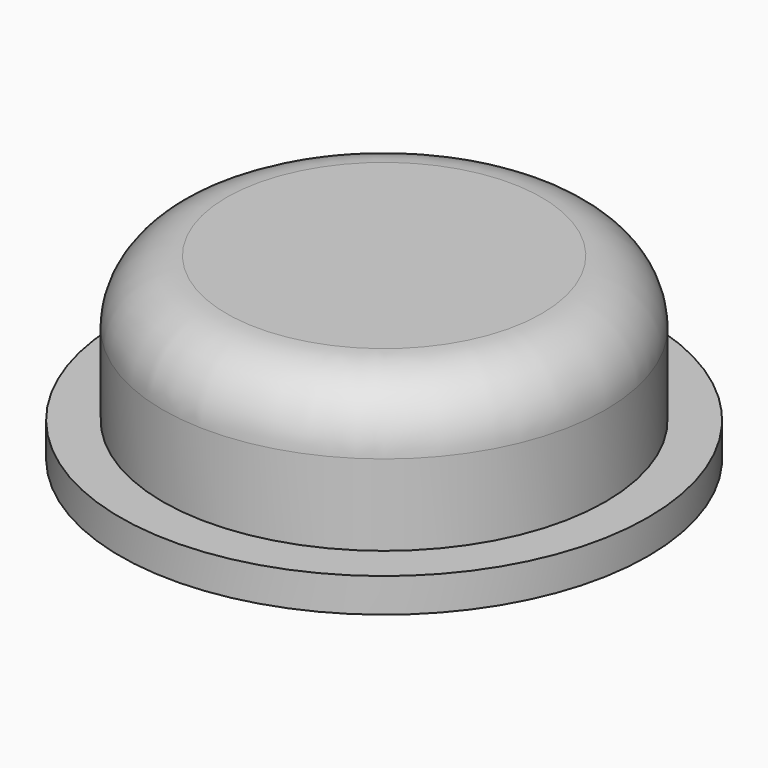
from build123d import *


with BuildPart() as part:
    # Sketch → Revolution (revolve)
    with BuildSketch(Plane.XZ):
        with BuildLine():
            Line((0, 0), (0.75, 0))
            Line((0.75, 0), (1.350002, 0.8))
            Line((1.350002, 0.8), (3.1, 0.8))
            Line((3.1, 0.8), (3.1, 1.2))
            Line((2.6, 1.2), (3.1, 1.2))
            Line((2.6, 2.15), (2.6, 1.2))
            ThreePointArc((2.6, 2.15), (2.38033, 2.68033), (1.85, 2.9))
            Line((1.85, 2.9), (0, 2.9))
            Line((0, 2.9), (0, 0))
        make_face()
    revolve(axis=Axis((0, 0, 0), (0, 0, 1)))


solid = part.part
